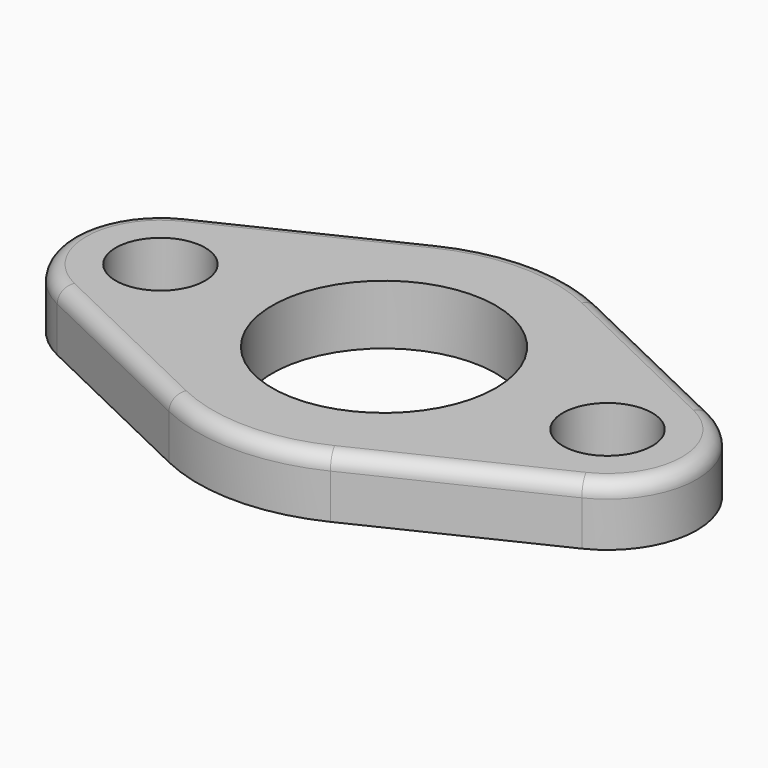
from build123d import *

# Parameters (mm, degrees)
SKETCH_R   = 30
SKETCH_R_2 = 12
PAD_DEPTH  = 16
FILLET_R   = 4


with BuildPart() as part:
    # Sketch → Pad (new body)
    with BuildSketch(Plane.XY):
        with BuildLine():
            ThreePointArc((70.4, -21.629609), (84, 0), (70.4, 21.629609))
            Line((21.666667, 45.061686), (70.4, 21.629609))
            ThreePointArc((21.666667, 45.061686), (0, 50), (-21.666667, 45.061686))
            Line((-70.4, 21.629609), (-21.666667, 45.061686))
            ThreePointArc((-70.4, 21.629609), (-84, 0), (-70.4, -21.629609))
            Line((-21.666667, -45.061686), (-70.4, -21.629609))
            ThreePointArc((-21.666667, -45.061686), (0, -50), (21.666667, -45.061686))
            Line((70.4, -21.629609), (21.666667, -45.061686))
        make_face()
        Circle(SKETCH_R, mode=Mode.SUBTRACT)
        with Locations((60, 0)):
            Circle(SKETCH_R_2, mode=Mode.SUBTRACT)
        with Locations((-60, 0)):
            Circle(SKETCH_R_2, mode=Mode.SUBTRACT)
    extrude(amount=PAD_DEPTH)

    # Fillet
    fillet_edges = [part.edges().sort_by_distance(p)[0] for p in [
        (-46.033333, -33.345648, 16),
        (0, -50, 16),
        (46.033333, -33.345648, 16),
        (84, 0, 16),
        (46.033333, 33.345648, 16),
        (0, 50, 16),
        (-46.033333, 33.345648, 16),
        (-84, 0, 16),
    ]]
    fillet(fillet_edges, radius=FILLET_R)


solid = part.part
